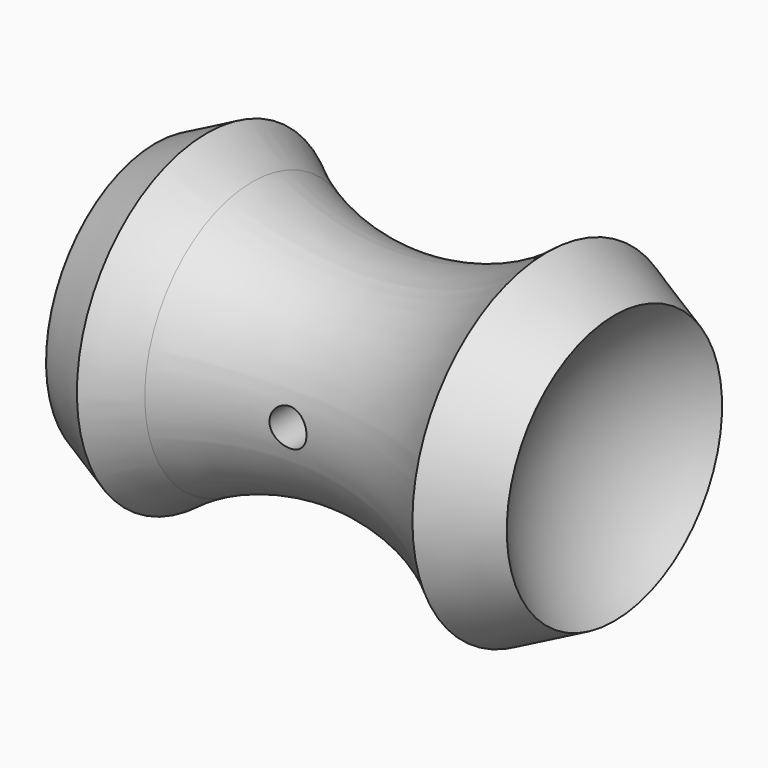
from build123d import *

# Parameters (mm, degrees)
F2_R     = 3.062893842
F3_DEPTH = 18.9


with BuildPart() as f1:
    # F0 (on Front) → F1 (revolve)
    with BuildSketch(Plane.XZ):
        with BuildLine():
            ThreePointArc((-36.0417068005, 22.6352475584), (-28.8388511422, 12.3410760013), (-26.4832321554, 0))
            Line((-26.4832321554, 0), (30, 0))
            ThreePointArc((30, 0), (32.586028994, 12.1849987149), (39.8982795788, 22.2692800986))
            Line((39.8982795788, 22.2692800986), (28.7362357607, 27.8327842178))
            ThreePointArc((28.7362357607, 27.8327842178), (5.1784107005, 17.8366588124), (-20.0350553401, 22.2155599191))
            Line((-20.0350553401, 22.2155599191), (-35.8663984566, 22.7228181691))
            Line((-35.8663984566, 22.7228181691), (-36.0417068005, 22.6352475584))
        make_face()
        with BuildLine():
            Line((-27.539235386, 26.8824305387), (-35.8663984566, 22.7228181691))
            Line((-35.8663984566, 22.7228181691), (-20.0350553401, 22.2155599191))
            ThreePointArc((-20.0350553401, 22.2155599191), (-23.901322241, 24.3654024278), (-27.539235386, 26.8824305387))
        make_face()
    revolve(axis=Axis((1.7583839223, 0, 0), (1, 0, 0)))

    # F2 (on Front) → F3 (cut, symmetric)
    with BuildSketch(Plane.XZ):
        Circle(F2_R)
    extrude(amount=F3_DEPTH, both=True, mode=Mode.SUBTRACT)


solid = f1.part
